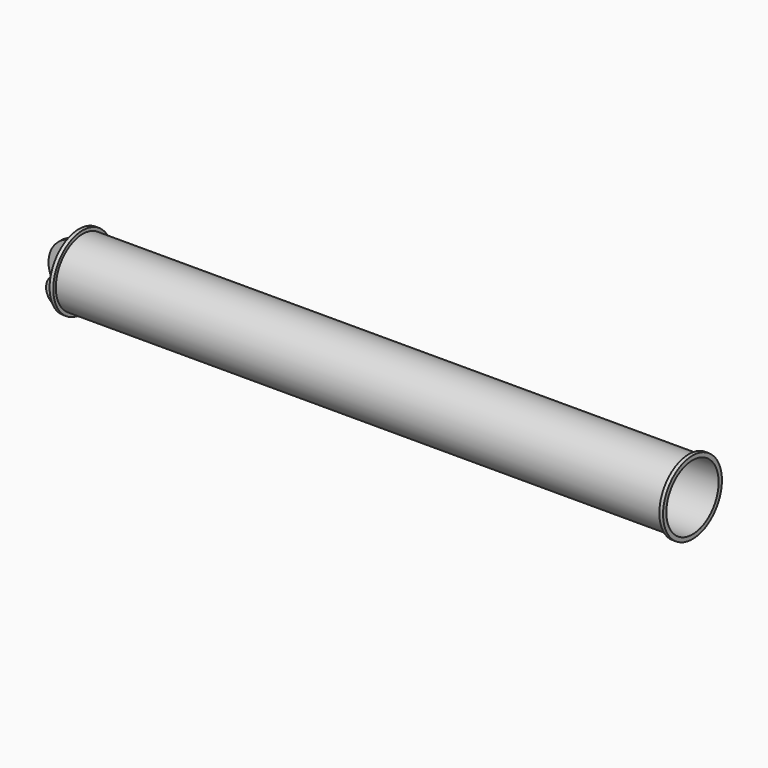
from build123d import *

# Parameters (mm, degrees)
F3_R     = 90
F4_DEPTH = 12
F5_R     = 35
F5_R_2   = 33
F6_DEPTH = 51
F7_DEPTH = 132.001
F8_R     = 47.5
F8_R_2   = 35
F8_R_3   = 33
F9_DEPTH = 12


with BuildPart() as f2:
    # F0 (on Front) → F2 (revolve)
    with BuildSketch(Plane.XZ):
        Polygon((0, 120), (0, 106.5), (2000, 106.5), (2000, 120), (1988, 120), (1988, 109.5), (12, 109.5), (12, 120), align=None)
    revolve(axis=Axis((45.6891432405, 0, 0), (1, 0, 0)))


with BuildPart() as f4:
    # F3 (on Front) → F4 (new body)
    with BuildSketch(Plane.XZ):
        Circle(F3_R)
    extrude(amount=F4_DEPTH)

    # F5 (on face) → F6 (join)
    with BuildSketch(Plane.XZ.offset(12)):
        with Locations((0, -32.5)):
            Circle(F5_R)
        with Locations((0, -32.5)):
            Circle(F5_R_2, mode=Mode.SUBTRACT)
    extrude(amount=F6_DEPTH)

    # F5 (on face) → F7 (cut, through all)
    with BuildSketch(Plane.XZ.offset(12)):
        with Locations((0, -32.5)):
            Circle(F5_R_2)
    extrude(amount=-F7_DEPTH, mode=Mode.SUBTRACT)

    # F8 (on face) → F9 (join)
    with BuildSketch(Plane.XZ.offset(63)):
        with Locations((0, -32.5)):
            Circle(F8_R)
        with Locations((0, -32.5)):
            Circle(F8_R_2, mode=Mode.SUBTRACT)
        with Locations((0, -32.5)):
            Circle(F8_R_2)
        with Locations((0, -32.5)):
            Circle(F8_R_3, mode=Mode.SUBTRACT)
    extrude(amount=F9_DEPTH)


with BuildPart() as f12:
    # F10 (on Front) → F12 (revolve)
    with BuildSketch(Plane.XZ):
        with BuildLine():
            Line((0, 47.5), (0, 35))
            Line((0, 35), (12, 35))
            Line((12, 35), (58, 26))
            Line((58, 26), (63, 26))
            Line((63, 26), (63, 37.5))
            Line((63, 37.5), (60, 37.5))
            Line((60, 37.5), (60, 33.7196775232))
            ThreePointArc((60, 33.7196775232), (58.178026891, 29.8596069177), (54.0399419681, 28.8127142489))
            Line((54.0399419681, 28.8127142489), (12, 37.0379202861))
            Line((12, 37.0379202861), (12, 47.5))
            Line((12, 47.5), (0, 47.5))
        make_face()
    revolve(axis=Axis((33.8844247162, 0, 0), (1, 0, 0)))


solid = Compound([f2.part, f4.part, f12.part])
